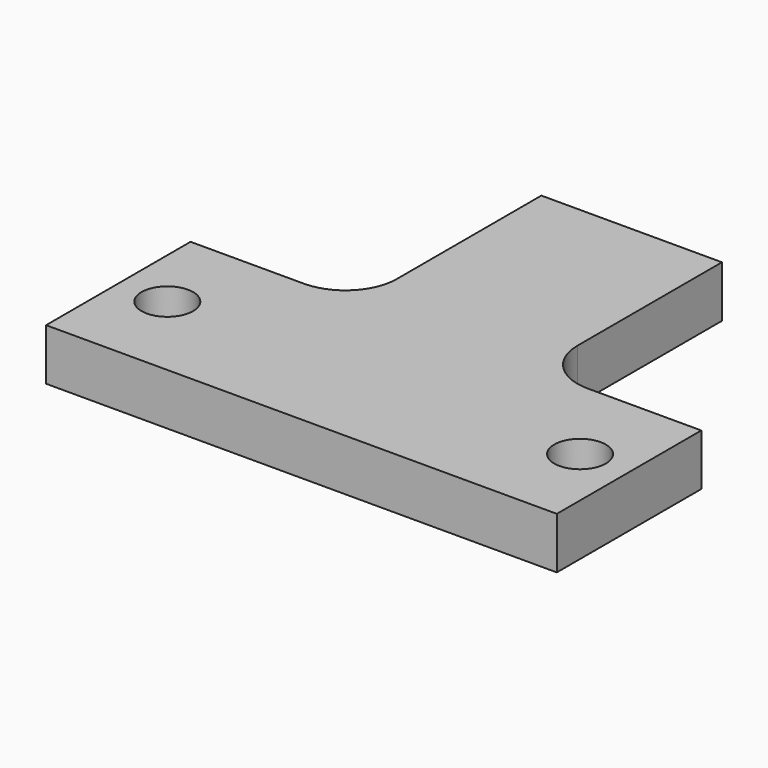
from build123d import *

# Parameters (mm, degrees)
F1_DEPTH = 2
F2_D     = 2


with BuildPart() as f1:
    # F0 (on Top) → F1 (new body)
    with BuildSketch(Plane.XY):
        Polygon((-9.9, -3.5), (9.9, -3.5), (9.9, 3.5), (5.5, 3.5), (3.5, 3.5), (-3.5, 3.5), (-5.5, 3.5), (-9.9, 3.5), align=None)
        Polygon((-3.5, 3.5), (3.5, 3.5), (3.5, 5.5), (3.5, 12.5), (-3.5, 12.5), (-3.5, 5.5), align=None)
        with BuildLine():
            ThreePointArc((-3.5, 5.5), (-4.085786, 4.085786), (-5.5, 3.5))
            Line((-5.5, 3.5), (-3.5, 3.5))
            Line((-3.5, 3.5), (-3.5, 5.5))
        make_face()
        with BuildLine():
            Line((3.5, 3.5), (5.5, 3.5))
            ThreePointArc((5.5, 3.5), (4.085786, 4.085786), (3.5, 5.5))
            Line((3.5, 5.5), (3.5, 3.5))
        make_face()
    extrude(amount=F1_DEPTH)

    # F2 (through all)
    with Locations(Plane(origin=(0, 0, 0), x_dir=(1, 0, 0), z_dir=(0, 0, -1))):
        with Locations((-8, 0), (8, 0)):
            Hole(F2_D / 2)


solid = f1.part
